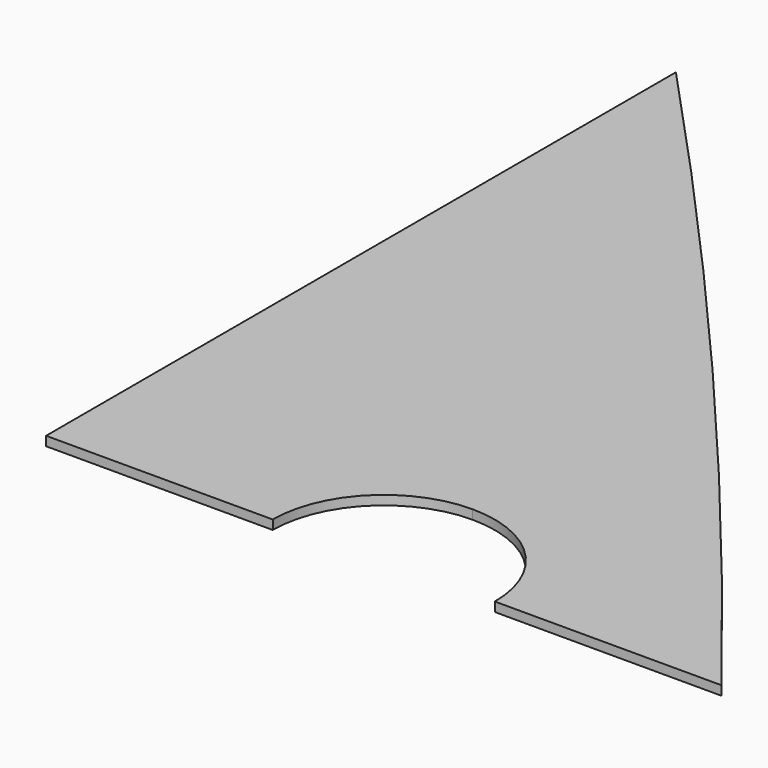
from build123d import *

# Parameters (mm, degrees)
F1_DEPTH = 25.4


with BuildPart() as f1:
    # F0 (on Top) → F1 (new body)
    with BuildSketch(Plane.XY):
        with BuildLine():
            Line((-963.168343, 4128.799945), (-963.168343, 1967.513945))
            Line((-963.168343, 1967.513945), (-340.868343, 1967.513945))
            ThreePointArc((-340.868343, 1967.513945), (-251.59449, 2183.040092), (-36.068343, 2272.313945))
            Line((-36.068343, 2272.313945), (-36.068343, 3096.035945))
            ThreePointArc((-36.068343, 3096.035945), (-494.106465, 3617.365893), (-963.168343, 4128.799945))
        make_face()
        with BuildLine():
            Line((-36.068343, 3096.035945), (-36.068343, 2272.313945))
            ThreePointArc((-36.068343, 2272.313945), (179.457803, 2183.040092), (268.731657, 1967.513945))
            Line((268.731657, 1967.513945), (891.031657, 1967.513945))
            ThreePointArc((891.031657, 1967.513945), (433.820002, 2536.982003), (-36.068343, 3096.035945))
        make_face()
    extrude(amount=F1_DEPTH)


solid = f1.part
